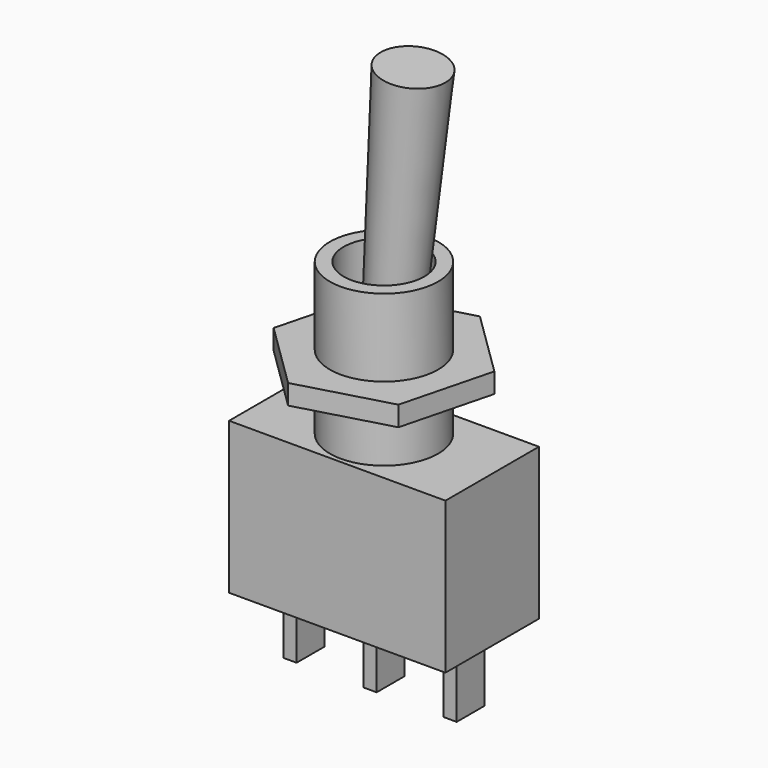
from build123d import *

# Parameters (mm, degrees)
F0_R      = 3.175
F0_R_2    = 2.3677964523
F1_DEPTH  = 8.89
F2_W      = 12.7
F2_H      = 6.858
F3_DEPTH  = 8.89
F4_W      = 0.762
F4_H      = 2.032
F5_DEPTH  = 3.937
F7_R      = 3.175
F8_DEPTH  = 1.1684
F11_R     = 1.2243851264
F12_DEPTH = 19.558
F12_TAPER = -2


with BuildPart() as f1:
    # F0 (on Top) → F1 (new body)
    with BuildSketch(Plane.XY):
        Circle(F0_R)
        Circle(F0_R_2, mode=Mode.SUBTRACT)
    extrude(amount=F1_DEPTH)

    # F2 (on face) → F3 (join)
    with BuildSketch(Plane(origin=(0, 0, 0), x_dir=(1, 0, 0), z_dir=(0, 0, -1))):
        Rectangle(F2_W, F2_H)
    extrude(amount=F3_DEPTH)

    # F4 (on face) → F5 (join)
    with BuildSketch(Plane(origin=(0, 0, -8.89), x_dir=(1, 0, 0), z_dir=(0, 0, -1))):
        with Locations((-4.699, 0)):
            Rectangle(F4_W, F4_H)
        Rectangle(F4_W, F4_H)
        with Locations((4.699, 0)):
            Rectangle(F4_W, F4_H)
    extrude(amount=F5_DEPTH)

    # F7 (on offset) → F8 (join)
    with BuildSketch(Plane.XY.offset(3.175)):
        Polygon((-5.297310009, -1.4766115498), (-1.3698718908, -5.3259108144), (3.9274381181, -3.8492992646), (5.297310009, 1.4766115498), (1.3698718908, 5.3259108144), (-3.9274381181, 3.8492992646), align=None)
        Circle(F7_R, mode=Mode.SUBTRACT)
    extrude(amount=F8_DEPTH)

    # F11 (on line) → F12 (join)
    with BuildSketch(Plane(origin=(0, 0, 0), x_dir=(0.9961946981, 0, -0.0871557427), z_dir=(-0.0871557427, 0, -0.9961946981))):
        Circle(F11_R)
    extrude(amount=-F12_DEPTH, taper=F12_TAPER)


solid = f1.part
